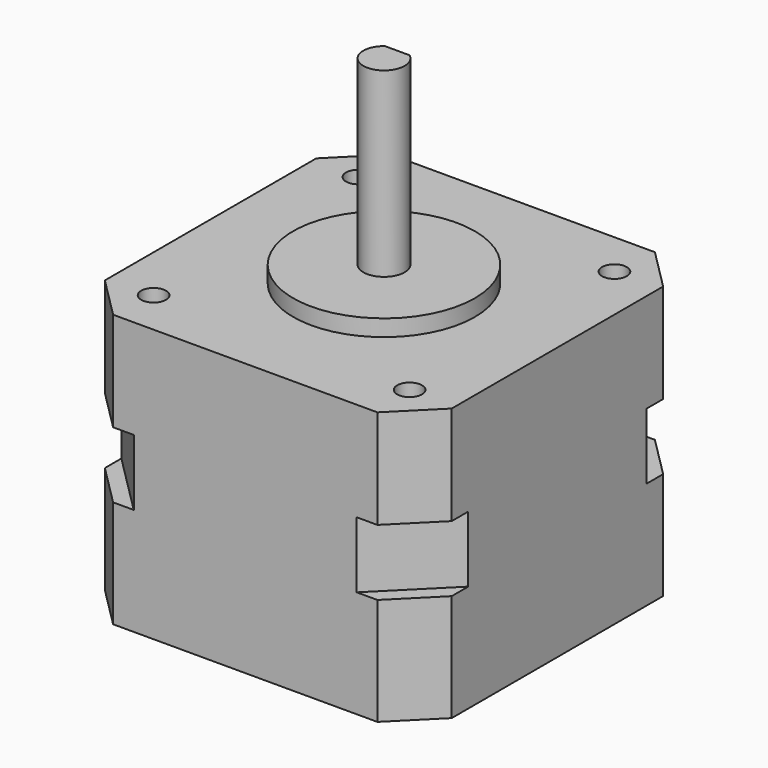
from build123d import *

# Parameters (mm, degrees)
F0_W      = 42
F0_H      = 42
F1_DEPTH  = 4
F2_SIZE   = 7.5
F4_DEPTH  = 12
F5_SIZE   = 5
F7_DEPTH  = 13
F8_R      = 11
F9_DEPTH  = 2
F10_R     = 2.5
F11_DEPTH = 22
F12_W     = 5.2537292178
F12_H     = 0.9334036984
F13_DEPTH = 22
F14_R     = 1.5
F15_DEPTH = 6


with BuildPart() as f1:
    # F0 (on Top) → F1 (new body, symmetric)
    with BuildSketch(Plane.XY):
        Rectangle(F0_W, F0_H)
    extrude(amount=F1_DEPTH, both=True)

    # F2
    f2_edges = [f1.edges().sort_by_distance(p)[0] for p in [
        (21, 21, 0),
        (-21, 21, 0),
        (-21, -21, 0),
        (21, -21, 0),
    ]]
    chamfer(f2_edges, length=F2_SIZE)

    # F3 (on face) → F4 (join)
    with BuildSketch(Plane.XY.offset(4)):
        Polygon((13.5, 21), (-13.5, 21), (-21, 13.5), (-21, -13.5), (-13.5, -21), (13.5, -21), (21, -13.5), (21, 13.5), align=None)
        Polygon((21, 21), (13.5, 21), (21, 13.5), align=None)
        Polygon((-13.5, 21), (-21, 21), (-21, 13.5), align=None)
        Polygon((-13.5, -21), (-21, -13.5), (-21, -21), align=None)
        Polygon((21, -21), (21, -13.5), (13.5, -21), align=None)
    extrude(amount=F4_DEPTH)

    # F5
    f5_edges = [f1.edges().sort_by_distance(p)[0] for p in [
        (21, -21, 10),
        (-21, -21, 10),
        (-21, 21, 10),
        (21, 21, 10),
    ]]
    chamfer(f5_edges, length=F5_SIZE)

    # F6 (on face) → F7 (join)
    with BuildSketch(Plane(origin=(0, 0, -4), x_dir=(1, 0, 0), z_dir=(0, 0, -1))):
        Polygon((21, -16), (21, 16), (16, 21), (-16, 21), (-21, 16), (-21, -16), (-16, -21), (16, -21), align=None)
    extrude(amount=F7_DEPTH)

    # F8 (on face) → F9 (join)
    with BuildSketch(Plane.XY.offset(16)):
        Circle(F8_R)
    extrude(amount=F9_DEPTH)

    # F10 (on face) → F11 (join)
    with BuildSketch(Plane.XY.offset(18)):
        Circle(F10_R)
    extrude(amount=F11_DEPTH)

    # F12 (on face) → F13 (cut)
    with BuildSketch(Plane.XY.offset(40)):
        with Locations((-0.0065014465, 2.4667018492)):
            Rectangle(F12_W, F12_H)
    extrude(amount=-F13_DEPTH, mode=Mode.SUBTRACT)

    # F14 (on face) → F15 (cut)
    with BuildSketch(Plane.XY.offset(16)):
        with Locations((-15.5, 15.5)):
            Circle(F14_R)
        with Locations((15.5, 15.5)):
            Circle(F14_R)
        with Locations((-15.5, -15.5)):
            Circle(F14_R)
        with Locations((15.5, -15.5)):
            Circle(F14_R)
    extrude(amount=-F15_DEPTH, mode=Mode.SUBTRACT)


solid = f1.part
